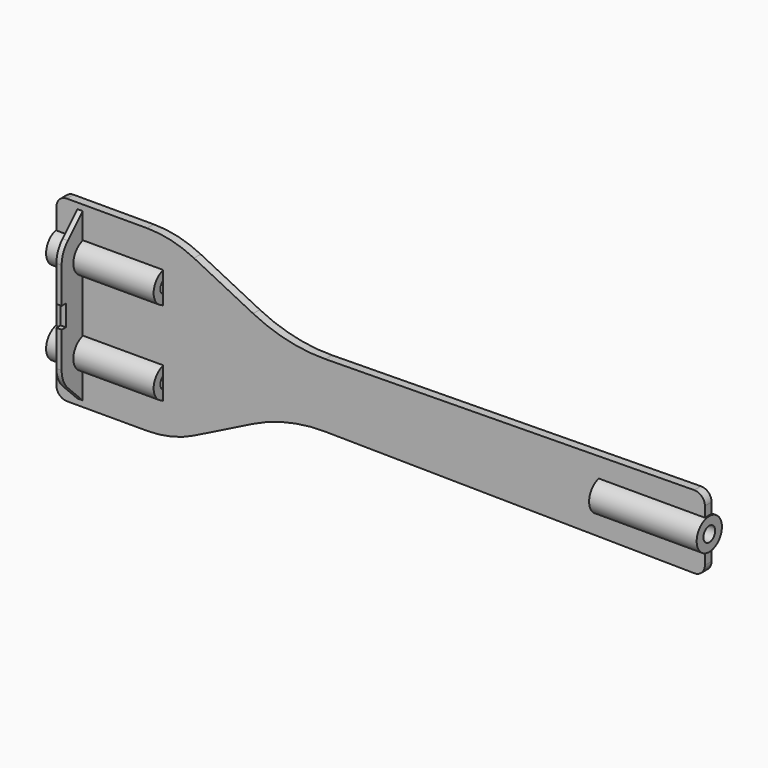
from build123d import *

# Parameters (mm, degrees)
F2_DEPTH = 8
F3_R     = 15.05
F3_R_2   = 7
F4_DEPTH = 102.5
F5_R     = 15.05
F5_R_2   = 7
F6_DEPTH = 102.5
F9_DEPTH = 5


with BuildPart() as f2:
    # F1 (on Front) → F2 (new body)
    with BuildSketch(Plane.XZ):
        with BuildLine():
            Line((-155, 15), (-53.5, 15))
            Line((-53.5, 15), (-53.5, 24.8735827689))
            ThreePointArc((-53.5, 24.8735827689), (-56.4734852979, 31.9889247243), (-63.6256182283, 34.8727937409))
            Line((-63.6256182283, 34.8727937409), (-415.0965194239, 30.457330158))
            ThreePointArc((-415.0965194239, 30.457330158), (-450.5260994272, 34.2445631167), (-484.0628321732, 46.2814160866))
            Line((-484.0628321732, 46.2814160866), (-540.3854382, 74.4427191))
            ThreePointArc((-540.3854382, 74.4427191), (-562.1315056952, 82.3248989468), (-585.10679775, 85))
            Line((-585.10679775, 85), (-661.5, 85))
            ThreePointArc((-661.5, 85), (-668.5710678119, 82.0710678119), (-671.5, 75))
            Line((-671.5, 75), (-671.5, 55))
            Line((-671.5, 55), (-570, 55))
            Line((-570, 55), (-570, 25))
            Line((-570, 25), (-671.5, 25))
            Line((-671.5, 25), (-671.5, -25))
            Line((-671.5, -25), (-570, -25))
            Line((-570, -25), (-570, -55))
            Line((-570, -55), (-671.5, -55))
            Line((-671.5, -55), (-671.5, -75))
            ThreePointArc((-671.5, -75), (-668.5710678119, -82.0710678119), (-661.5, -85))
            Line((-661.5, -85), (-585.10679775, -85))
            ThreePointArc((-585.10679775, -85), (-562.1315056952, -82.3248989468), (-540.3854382, -74.4427191))
            Line((-540.3854382, -74.4427191), (-484.0628321732, -46.2814160866))
            ThreePointArc((-484.0628321732, -46.2814160866), (-450.5260994272, -34.2445631167), (-415.0965194239, -30.457330158))
            Line((-415.0965194239, -30.457330158), (-63.6256182283, -34.8727937409))
            ThreePointArc((-63.6256182283, -34.8727937409), (-56.4734852979, -31.9889247243), (-53.5, -24.8735827689))
            Line((-53.5, -24.8735827689), (-53.5, -15))
            Line((-53.5, -15), (-155, -15))
            Line((-155, -15), (-155, 15))
        make_face()
    extrude(amount=F2_DEPTH)

    # F3 (on face) → F4 (join)
    with BuildSketch(Plane.YZ.offset(-155)):
        with Locations((-4, 0)):
            Circle(F3_R)
        with Locations((-4, 0)):
            Circle(F3_R_2, mode=Mode.SUBTRACT)
    extrude(amount=F4_DEPTH)

    # F5 (on face) → F6 (join)
    with BuildSketch(Plane(origin=(-570, 0, 0), x_dir=(0, -1, 0), z_dir=(-1, 0, 0))):
        with Locations((4, 40)):
            Circle(F5_R)
        with Locations((4, 40)):
            Circle(F5_R_2, mode=Mode.SUBTRACT)
        with Locations((4, -40)):
            Circle(F5_R)
        with Locations((4, -40)):
            Circle(F5_R_2, mode=Mode.SUBTRACT)
    extrude(amount=F6_DEPTH)

    # F8 (on offset) → F9 (join)
    with BuildSketch(Plane(origin=(-646.5, 0, 0), x_dir=(0, -1, 0), z_dir=(-1, 0, 0))):
        with BuildLine():
            Line((25.6776695297, 61.7791627651), (8, 79.4568322948))
            Line((8, 79.4568322948), (8, 54.4568322948))
            ThreePointArc((8, 54.4568322948), (19, 40), (8, 25.5431677052))
            Line((8, 25.5431677052), (8, -25.5431677052))
            ThreePointArc((8, -25.5431677052), (19, -40), (8, -54.4568322948))
            Line((8, -54.4568322948), (8, -79.4568322948))
            Line((8, -79.4568322948), (25.6776695297, -61.7791627651))
            ThreePointArc((25.6776695297, -61.7791627651), (31.0969883128, -53.6685790446), (33, -44.1014932355))
            Line((33, -44.1014932355), (33, -10))
            Line((33, -10), (28, -10))
            Line((28, -10), (28, 10))
            Line((28, 10), (33, 10))
            Line((33, 10), (33, 44.1014932355))
            ThreePointArc((33, 44.1014932355), (31.0969883128, 53.6685790446), (25.6776695297, 61.7791627651))
        make_face()
    extrude(amount=F9_DEPTH)


solid = f2.part
